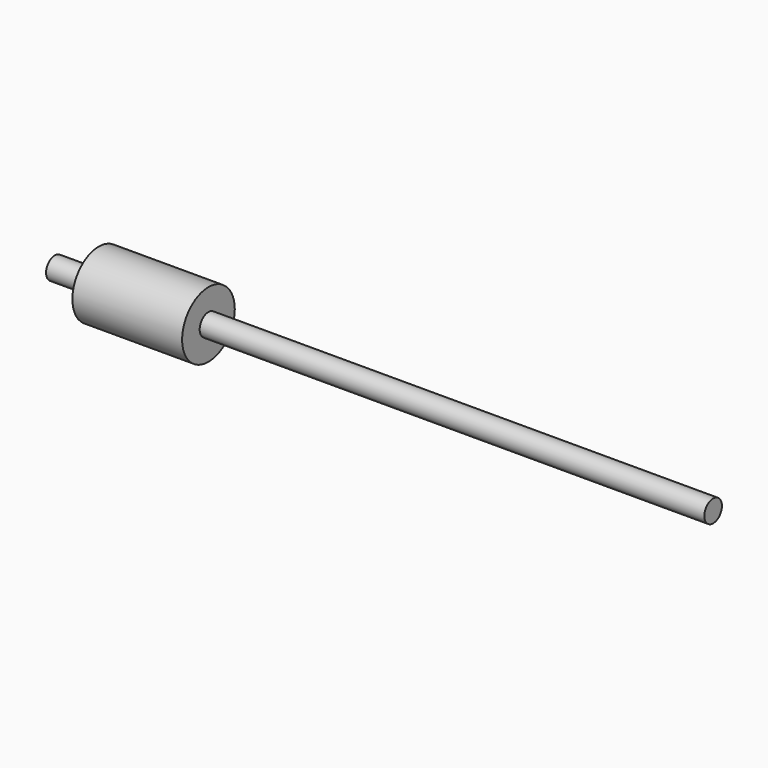
from build123d import *

# Parameters (mm, degrees)
F0_W   = 20
F0_H   = 5
F0_W_2 = 50
F0_H_2 = 10
F0_W_3 = 230


with BuildPart() as f1:
    # F0 (on Top) → F1 (revolve)
    with BuildSketch(Plane.XY):
        with Locations((-60, 2.5)):
            Rectangle(F0_W, F0_H)
        with Locations((-25, 10)):
            Rectangle(F0_W_2, F0_H_2)
        with Locations((-25, 2.5)):
            Rectangle(F0_W_2, F0_H)
        with Locations((115, 2.5)):
            Rectangle(F0_W_3, F0_H)
    revolve(axis=Axis((80, 0, 0), (1, 0, 0)))


solid = f1.part
